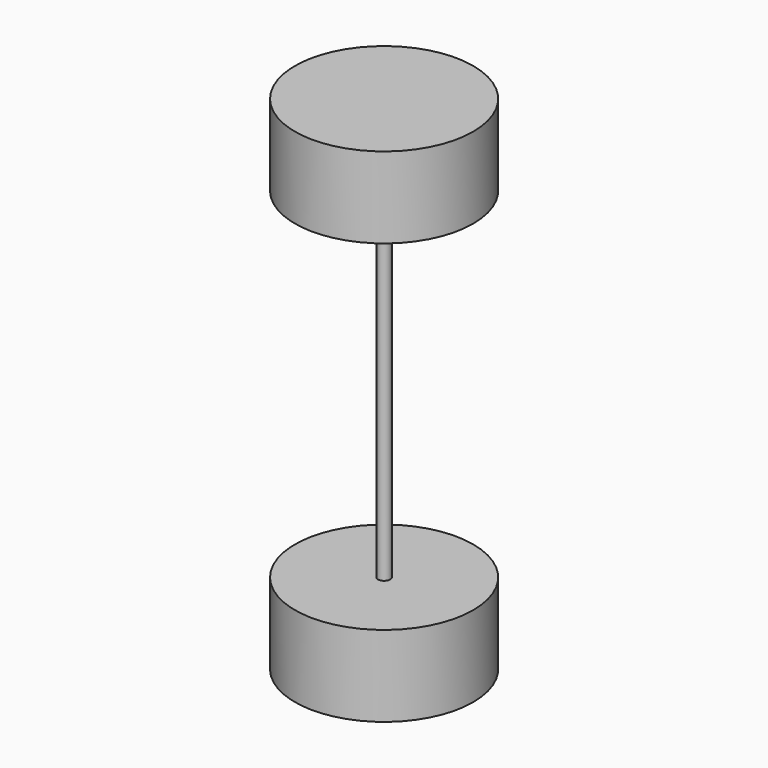
from build123d import *

# Parameters (mm, degrees)
F0_R     = 5.5
F1_DEPTH = 5
F3_R     = 5.5
F4_DEPTH = 5
F5_R     = 0.375
F6_DEPTH = 21


with BuildPart() as f1:
    # F0 (on Top) → F1 (new body)
    with BuildSketch(Plane.XY):
        Circle(F0_R)
    extrude(amount=F1_DEPTH)



with BuildPart() as f4:
    # F3 (on offset) → F4 (new body)
    with BuildSketch(Plane(origin=(0, 0, -21), x_dir=(1, 0, 0), z_dir=(0, 0, -1))):
        Circle(F3_R)
    extrude(amount=F4_DEPTH)


with BuildPart() as f1_1:
    add(f1.part)

    add(f4.part)  # F6 merges F4
    # F5 (on face) → F6 (join)
    with BuildSketch(Plane(origin=(0, 0, 0), x_dir=(1, 0, 0), z_dir=(0, 0, -1))):
        Circle(F5_R)
    extrude(amount=F6_DEPTH)


solid = f1_1.part
